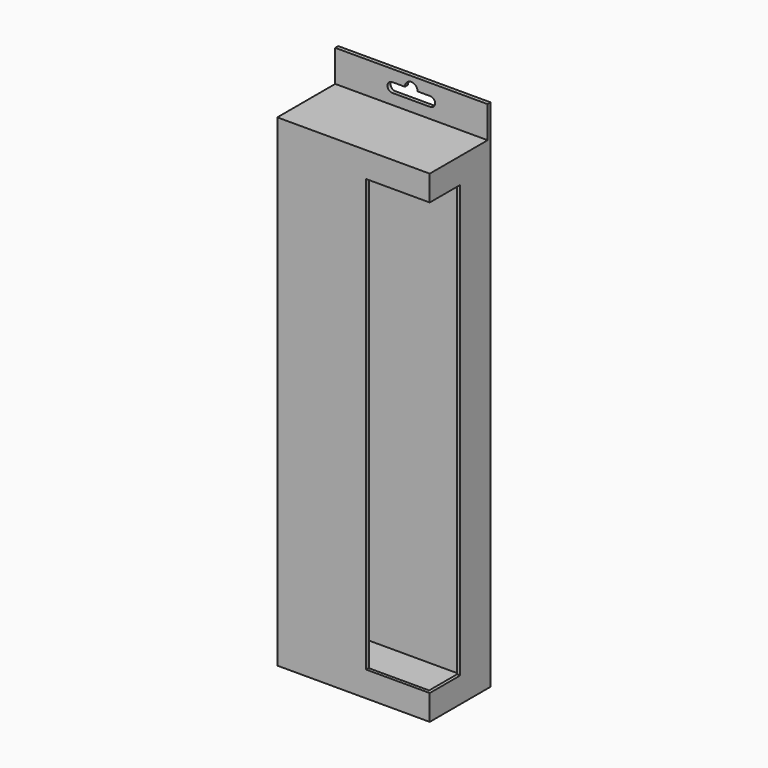
from build123d import *

# Parameters (mm, degrees)
F0_W     = 120
F0_H     = 380
F1_DEPTH = 60
F2_W     = 50
F2_H     = 340
F3_DEPTH = 30
F4_T     = -2.5
F5_W     = 120
F5_H     = 3
F6_DEPTH = 25
F8_DEPTH = 25


with BuildPart() as f1:
    # F0 (on Front) → F1 (new body)
    with BuildSketch(Plane.XZ):
        with Locations((60, 190)):
            Rectangle(F0_W, F0_H)
    extrude(amount=F1_DEPTH)

    # F2 (on face) → F3 (cut)
    with BuildSketch(Plane.XZ.offset(60)):
        with Locations((145, 190)):
            Rectangle(F2_W, F2_H)
        with Locations((95, 190)):
            Rectangle(F2_W, F2_H)
    extrude(amount=-F3_DEPTH, mode=Mode.SUBTRACT)

    # F4
    f4_openings = [f1.faces().sort_by_distance(p)[0] for p in [
        (95, -45, 20),
        (95, -30, 190),
        (70, -45, 190),
        (95, -45, 360),
    ]]
    offset(amount=F4_T, openings=f4_openings)

    # F5 (on face) → F6 (join)
    with BuildSketch(Plane.XY.offset(380)):
        with Locations((60, -1.5)):
            Rectangle(F5_W, F5_H)
    extrude(amount=F6_DEPTH)

    # F7 (on face) → F8 (cut)
    with BuildSketch(Plane.XZ.offset(3)):
        with BuildLine():
            ThreePointArc((64.880804, 395.873971), (63.476993, 399.347791), (60.053833, 400.870976))
            ThreePointArc((60.053833, 400.870976), (56.406984, 399.47016), (54.880804, 395.873971))
            Line((54.880804, 395.873971), (44.880804, 395.873971))
            ThreePointArc((44.880804, 395.873971), (41.130804, 392.123971), (44.880804, 388.373971))
            Line((44.880804, 388.373971), (74.880804, 388.373971))
            ThreePointArc((74.880804, 388.373971), (78.630804, 392.123971), (74.880804, 395.873971))
            Line((74.880804, 395.873971), (64.880804, 395.873971))
        make_face()
    extrude(amount=-F8_DEPTH, mode=Mode.SUBTRACT)


solid = f1.part
